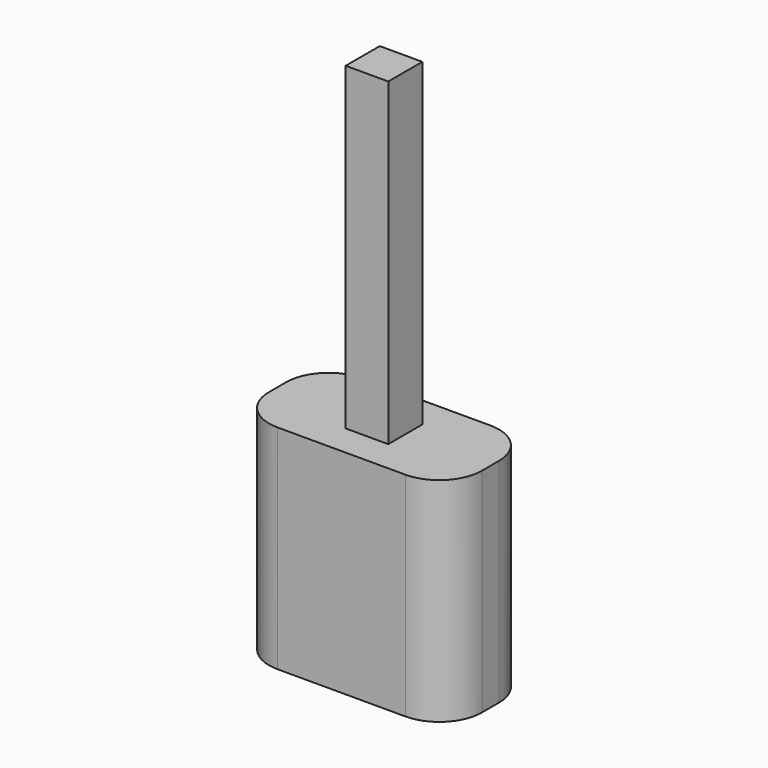
from build123d import *

# Parameters (mm, degrees)
F0_W     = 10
F0_H     = 5
F0_W_2   = 2
F0_H_2   = 2
F1_DEPTH = 10
F2_DEPTH = 15
F3_R     = 2


with BuildPart() as f1:
    # F0 (on Top) → F1 (new body)
    with BuildSketch(Plane.XY):
        Rectangle(F0_W, F0_H)
        Rectangle(F0_W_2, F0_H_2, mode=Mode.SUBTRACT)
        Rectangle(F0_W_2, F0_H_2)
    extrude(amount=-F1_DEPTH)

    # F0 (on Top) → F2 (join)
    with BuildSketch(Plane.XY):
        Rectangle(F0_W_2, F0_H_2)
    extrude(amount=F2_DEPTH)

    # F3
    f3_edges = [f1.edges().sort_by_distance(p)[0] for p in [
        (5, -2.5, -5),
        (-5, -2.5, -5),
        (-5, 2.5, -5),
        (5, 2.5, -5),
    ]]
    fillet(f3_edges, radius=F3_R)


solid = f1.part
